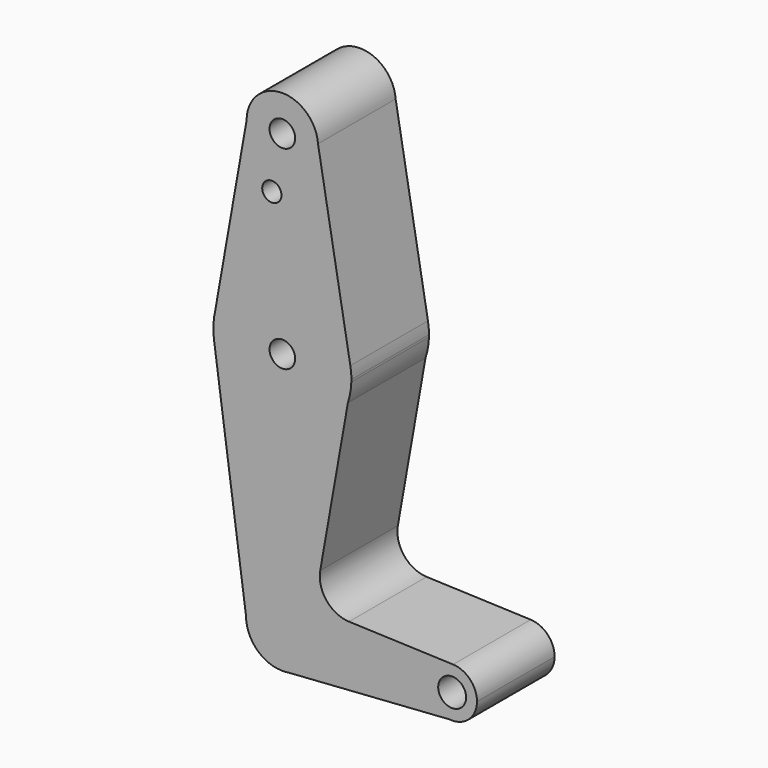
from build123d import *

# Parameters (mm, degrees)
F0_R     = 3.346698
F0_R_2   = 2.519769
F0_R_3   = 3.349689
F0_R_4   = 3.654217
F1_DEPTH = 25.4


with BuildPart() as f1:
    # F0 (on Front) → F1 (new body)
    with BuildSketch(Plane.XZ):
        with BuildLine():
            ThreePointArc((-9.361703, 114.3), (0, 104.938297), (9.361703, 114.3))
            ThreePointArc((9.361703, 114.3), (9.355381, 114.643999), (9.336423, 114.987534))
            ThreePointArc((9.336423, 114.987534), (-0.343999, 123.655381), (-9.361703, 114.3))
        make_face()
        with Locations((0, 114.3)):
            Circle(F0_R, mode=Mode.SUBTRACT)
        with BuildLine():
            ThreePointArc((9.336423, 114.987534), (9.355381, 114.643999), (9.361703, 114.3))
            ThreePointArc((9.361703, 114.3), (0, 104.938297), (-9.361703, 114.3))
            Line((-9.361703, 114.3), (-17.658065, 67.318142))
            ThreePointArc((-17.658065, 67.318142), (0.359708, 81.56256), (17.796077, 66.612089))
            Line((17.796077, 66.612089), (9.336423, 114.987534))
        make_face()
        with Locations((-2.745879, 100.0252)):
            Circle(F0_R_2, mode=Mode.SUBTRACT)
        with BuildLine():
            ThreePointArc((18.066141, 63.5), (17.998499, 65.061892), (17.796077, 66.612089))
            ThreePointArc((17.796077, 66.612089), (0.359708, 81.56256), (-17.658065, 67.318142))
            Line((-17.658065, 67.318142), (-17.897799, 65.960543))
            ThreePointArc((-17.897799, 65.960543), (-18.066141, 63.5), (-17.897799, 61.039457))
            ThreePointArc((-17.897799, 61.039457), (-1.640008, 45.508451), (17.157938, 57.843974))
            Line((17.157938, 57.843974), (18.057382, 62.937476))
            ThreePointArc((18.057382, 62.937476), (18.063951, 63.218704), (18.066141, 63.5))
        make_face()
        with Locations((0, 63.5)):
            Circle(F0_R_3, mode=Mode.SUBTRACT)
        with BuildLine():
            Line((-17.897799, 65.960543), (-17.658065, 67.318142))
            ThreePointArc((-17.658065, 67.318142), (-17.790886, 66.64163), (-17.897799, 65.960543))
        make_face()
        with BuildLine():
            ThreePointArc((17.157938, 57.843974), (17.790886, 60.35837), (18.057382, 62.937476))
            Line((18.057382, 62.937476), (17.157938, 57.843974))
        make_face()
        with BuildLine():
            ThreePointArc((17.157938, 57.843974), (-1.640008, 45.508451), (-17.897799, 61.039457))
            Line((-17.897799, 61.039457), (-9.506252, 0))
            ThreePointArc((-9.506252, 0), (0, 9.506252), (9.506252, 0))
            ThreePointArc((9.506252, 0), (7.171064, -6.240566), (1.312767, -9.415172))
            Line((1.312767, -9.415172), (43.808291, -6.466835))
            ThreePointArc((43.808291, -6.466835), (37.966421, 0.441521), (44.69091, 6.494128))
            Line((44.69091, 6.494128), (17.45011, 7.504671))
            ThreePointArc((17.45011, 7.504671), (11.560306, 10.453678), (9.915762, 16.831914))
            Line((9.915762, 16.831914), (17.157938, 57.843974))
        make_face()
        with BuildLine():
            ThreePointArc((9.506252, 0), (0, 9.506252), (-9.506252, 0))
            ThreePointArc((-9.506252, 0), (-6.721935, -6.721935), (0, -9.506252))
            Line((0, -9.506252), (1.312767, -9.415172))
            ThreePointArc((1.312767, -9.415172), (7.171064, -6.240566), (9.506252, 0))
        make_face()
        with BuildLine():
            Line((1.312767, -9.415172), (0, -9.506252))
            ThreePointArc((0, -9.506252), (0.657962, -9.483454), (1.312767, -9.415172))
        make_face()
        with BuildLine():
            ThreePointArc((50.948595, 0), (49.1296, 4.509222), (44.69091, 6.494128))
            ThreePointArc((44.69091, 6.494128), (37.966421, 0.441521), (43.808291, -6.466835))
            Line((43.808291, -6.466835), (45.978599, -6.316259))
            ThreePointArc((45.978599, -6.316259), (49.557127, -4.018582), (50.948595, 0))
        make_face()
        with Locations((44.45, 0)):
            Circle(F0_R_4, mode=Mode.SUBTRACT)
        with BuildLine():
            Line((45.978599, -6.316259), (43.808291, -6.466835))
            ThreePointArc((43.808291, -6.466835), (44.899791, -6.483011), (45.978599, -6.316259))
        make_face()
    extrude(amount=F1_DEPTH)


solid = f1.part
